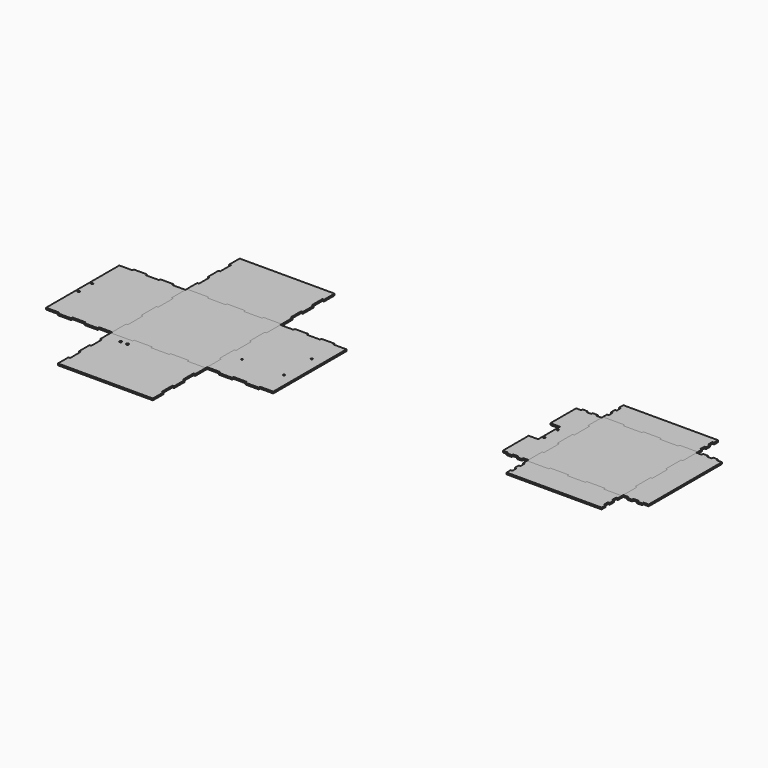
from build123d import *

# Parameters (mm, degrees)
F1_DEPTH  = 3.175
F2_DEPTH  = 3.175
F3_DEPTH  = 3.175
F4_DEPTH  = 3.175
F5_DEPTH  = 3.175
F6_R      = 2.3114
F7_DEPTH  = 25.4
F8_R      = 1.5875
F9_DEPTH  = 25.4
F10_R     = 1.905
F11_DEPTH = 25.4
F12_DEPTH = 3.175
F13_DEPTH = 3.175
F14_DEPTH = 3.175
F15_DEPTH = 3.175
F16_DEPTH = 3.175
F17_R     = 1.905
F18_DEPTH = 25.4


with BuildPart() as f1:
    # F0 (on Top) → F1 (new body)
    with BuildSketch(Plane.XY):
        Polygon((0, 3.175), (0, 0), (41.100154, 0), (41.100154, 3.175), (75.275115, 3.175), (75.275115, 0), (109.450077, 0), (109.450077, 3.175), (143.625038, 3.175), (143.625038, 0), (177.8, 0), (177.8, 3.175), (177.8, 35.56), (174.625, 35.56), (174.625, 71.12), (177.8, 71.12), (177.8, 106.68), (174.625, 106.68), (174.625, 142.24), (177.8, 142.24), (177.8, 174.625), (177.8, 177.8), (143.625038, 177.8), (143.625038, 174.625), (109.450077, 174.625), (109.450077, 177.8), (75.275115, 177.8), (75.275115, 174.625), (41.100154, 174.625), (41.100154, 177.8), (0, 177.8), (0, 174.625), (0, 142.24), (3.175, 142.24), (3.175, 106.68), (0, 106.68), (0, 71.12), (3.175, 71.12), (3.175, 35.56), (0, 35.56), align=None)
    extrude(amount=F1_DEPTH)


with BuildPart() as f2:
    # F0 (on Top) → F2 (new body)
    with BuildSketch(Plane.XY):
        Polygon((0, 202.565), (0, 177.8), (41.100154, 177.8), (41.100154, 174.625), (75.275115, 174.625), (75.275115, 177.8), (109.450077, 177.8), (109.450077, 174.625), (143.625038, 174.625), (143.625038, 177.8), (177.8, 177.8), (177.8, 202.565), (174.625, 202.565), (174.625, 227.33), (177.8, 227.33), (177.8, 252.095), (174.625, 252.095), (174.625, 276.86), (177.8, 276.86), (177.8, 301.625), (0, 301.625), (0, 276.86), (3.175, 276.86), (3.175, 252.095), (0, 252.095), (0, 227.33), (3.175, 227.33), (3.175, 202.565), align=None)
    extrude(amount=F2_DEPTH)


with BuildPart() as f3:
    # F0 (on Top) → F3 (new body)
    with BuildSketch(Plane.XY):
        Polygon((-24.765, 3.175), (0, 3.175), (0, 35.56), (3.175, 35.56), (3.175, 71.12), (0, 71.12), (0, 106.68), (3.175, 106.68), (3.175, 142.24), (0, 142.24), (0, 174.625), (-24.765, 174.625), (-24.765, 177.8), (-49.53, 177.8), (-49.53, 174.625), (-74.295, 174.625), (-74.295, 177.8), (-99.06, 177.8), (-99.06, 174.625), (-123.825, 174.625), (-123.825, 3.175), (-99.06, 3.175), (-99.06, 0), (-74.295, 0), (-74.295, 3.175), (-49.53, 3.175), (-49.53, 0), (-24.765, 0), align=None)
    extrude(amount=F3_DEPTH)

    # F10 (on face) → F11 (cut)
    with BuildSketch(Plane.XY.offset(3.175)):
        with Locations((-118.745, 104.775)):
            Circle(F10_R)
        with Locations((-118.745, 73.025)):
            Circle(F10_R)
    extrude(amount=-F11_DEPTH, mode=Mode.SUBTRACT)


with BuildPart() as f4:
    # F0 (on Top) → F4 (new body)
    with BuildSketch(Plane.XY):
        Polygon((177.8, 35.56), (177.8, 3.175), (202.565, 3.175), (202.565, 0), (227.33, 0), (227.33, 3.175), (252.095, 3.175), (252.095, 0), (276.86, 0), (276.86, 3.175), (301.625, 3.175), (301.625, 174.625), (276.86, 174.625), (276.86, 177.8), (252.095, 177.8), (252.095, 174.625), (227.33, 174.625), (227.33, 177.8), (202.565, 177.8), (202.565, 174.625), (177.8, 174.625), (177.8, 142.24), (174.625, 142.24), (174.625, 106.68), (177.8, 106.68), (177.8, 71.12), (174.625, 71.12), (174.625, 35.56), align=None)
    extrude(amount=F4_DEPTH)

    # F8 (on face) → F9 (cut)
    with BuildSketch(Plane.XY.offset(3.175)):
        with Locations((201.960813, 54.385198)):
            Circle(F8_R)
        with Locations((280.918813, 54.255)):
            Circle(F8_R)
        with Locations((280.918813, 119.255)):
            Circle(F8_R)
    extrude(amount=-F9_DEPTH, mode=Mode.SUBTRACT)


with BuildPart() as f5:
    # F0 (on Top) → F5 (new body)
    with BuildSketch(Plane.XY):
        Polygon((41.100154, 0), (0, 0), (0, -24.765), (3.175, -24.765), (3.175, -49.53), (0, -49.53), (0, -74.295), (3.175, -74.295), (3.175, -99.06), (0, -99.06), (0, -123.825), (177.8, -123.825), (177.8, -99.06), (174.625, -99.06), (174.625, -74.295), (177.8, -74.295), (177.8, -49.53), (174.625, -49.53), (174.625, -24.765), (177.8, -24.765), (177.8, 0), (143.625038, 0), (143.625038, 3.175), (109.450077, 3.175), (109.450077, 0), (75.275115, 0), (75.275115, 3.175), (41.100154, 3.175), align=None)
    extrude(amount=F5_DEPTH)

    # F6 (on face) → F7 (cut)
    with BuildSketch(Plane.XY.offset(3.175)):
        with Locations((28.575, -12.7)):
            Circle(F6_R)
        with Locations((41.275, -12.7)):
            Circle(F6_R)
    extrude(amount=-F7_DEPTH, mode=Mode.SUBTRACT)


with BuildPart() as f12:
    # F0 (on Top) → F12 (new body)
    with BuildSketch(Plane.XY):
        Polygon((728.335508, 67.149459), (728.335508, 63.974459), (769.435662, 63.974459), (769.435662, 67.149459), (803.610623, 67.149459), (803.610623, 63.974459), (837.785585, 63.974459), (837.785585, 67.149459), (871.960546, 67.149459), (871.960546, 63.974459), (906.135508, 63.974459), (906.135508, 67.149459), (906.135508, 99.534459), (902.960508, 99.534459), (902.960508, 135.094459), (906.135508, 135.094459), (906.135508, 170.654459), (902.960508, 170.654459), (902.960508, 206.214459), (906.135508, 206.214459), (906.135508, 238.599459), (906.135508, 241.774459), (871.960546, 241.774459), (871.960546, 238.599459), (837.785585, 238.599459), (837.785585, 241.774459), (803.610623, 241.774459), (803.610623, 238.599459), (769.435662, 238.599459), (769.435662, 241.774459), (728.335508, 241.774459), (728.335508, 238.599459), (728.335508, 206.214459), (731.510508, 206.214459), (731.510508, 170.654459), (728.335508, 170.654459), (728.335508, 135.094459), (731.510508, 135.094459), (731.510508, 99.534459), (728.335508, 99.534459), align=None)
    extrude(amount=F12_DEPTH)


with BuildPart() as f13:
    # F0 (on Top) → F13 (new body)
    with BuildSketch(Plane.XY):
        Polygon((718.810508, 67.149459), (728.335508, 67.149459), (728.335508, 99.534459), (731.510508, 99.534459), (731.510508, 135.094459), (728.335508, 135.094459), (728.335508, 170.654459), (731.510508, 170.654459), (731.510508, 206.214459), (728.335508, 206.214459), (728.335508, 238.599459), (718.810508, 238.599459), (718.810508, 241.774459), (709.285508, 241.774459), (709.285508, 238.599459), (699.760508, 238.599459), (699.760508, 241.774459), (690.235508, 241.774459), (690.235508, 238.599459), (680.710508, 238.599459), (680.710508, 67.149459), (690.235508, 67.149459), (690.235508, 63.974459), (699.760508, 63.974459), (699.760508, 67.149459), (709.285508, 67.149459), (709.285508, 63.974459), (718.810508, 63.974459), align=None)
    extrude(amount=F13_DEPTH)

    # F17 (on face) → F18 (cut)
    with BuildSketch(Plane.XY.offset(3.175)):
        Polygon((698.490508, 178.274459), (680.710508, 178.274459), (680.710508, 127.474459), (698.490508, 127.474459), (698.490508, 152.874459), align=None)
        with Locations((702.300508, 168.749459)):
            Circle(F17_R)
        with Locations((702.300508, 136.999459)):
            Circle(F17_R)
    extrude(amount=-F18_DEPTH, mode=Mode.SUBTRACT)


with BuildPart() as f14:
    # F0 (on Top) → F14 (new body)
    with BuildSketch(Plane.XY):
        Polygon((769.435662, 63.974459), (728.335508, 63.974459), (728.335508, 54.449459), (731.510508, 54.449459), (731.510508, 44.924459), (728.335508, 44.924459), (728.335508, 35.399459), (731.510508, 35.399459), (731.510508, 25.874459), (728.335508, 25.874459), (728.335508, 16.349459), (906.135508, 16.349459), (906.135508, 25.874459), (902.960508, 25.874459), (902.960508, 35.399459), (906.135508, 35.399459), (906.135508, 44.924459), (902.960508, 44.924459), (902.960508, 54.449459), (906.135508, 54.449459), (906.135508, 63.974459), (871.960546, 63.974459), (871.960546, 67.149459), (837.785585, 67.149459), (837.785585, 63.974459), (803.610623, 63.974459), (803.610623, 67.149459), (769.435662, 67.149459), align=None)
    extrude(amount=F14_DEPTH)


with BuildPart() as f15:
    # F0 (on Top) → F15 (new body)
    with BuildSketch(Plane.XY):
        Polygon((728.335508, 251.299459), (728.335508, 241.774459), (769.435662, 241.774459), (769.435662, 238.599459), (803.610623, 238.599459), (803.610623, 241.774459), (837.785585, 241.774459), (837.785585, 238.599459), (871.960546, 238.599459), (871.960546, 241.774459), (906.135508, 241.774459), (906.135508, 251.299459), (902.960508, 251.299459), (902.960508, 260.824459), (906.135508, 260.824459), (906.135508, 270.349459), (902.960508, 270.349459), (902.960508, 279.874459), (906.135508, 279.874459), (906.135508, 289.399459), (728.335508, 289.399459), (728.335508, 279.874459), (731.510508, 279.874459), (731.510508, 270.349459), (728.335508, 270.349459), (728.335508, 260.824459), (731.510508, 260.824459), (731.510508, 251.299459), align=None)
    extrude(amount=F15_DEPTH)


with BuildPart() as f16:
    # F0 (on Top) → F16 (new body)
    with BuildSketch(Plane.XY):
        Polygon((906.135508, 99.534459), (906.135508, 67.149459), (915.660508, 67.149459), (915.660508, 63.974459), (925.185508, 63.974459), (925.185508, 67.149459), (934.710508, 67.149459), (934.710508, 63.974459), (944.235508, 63.974459), (944.235508, 67.149459), (953.760508, 67.149459), (953.760508, 238.599459), (944.235508, 238.599459), (944.235508, 241.774459), (934.710508, 241.774459), (934.710508, 238.599459), (925.185508, 238.599459), (925.185508, 241.774459), (915.660508, 241.774459), (915.660508, 238.599459), (906.135508, 238.599459), (906.135508, 206.214459), (902.960508, 206.214459), (902.960508, 170.654459), (906.135508, 170.654459), (906.135508, 135.094459), (902.960508, 135.094459), (902.960508, 99.534459), align=None)
    extrude(amount=F16_DEPTH)


solid = Compound([f1.part, f2.part, f3.part, f4.part, f5.part, f12.part, f13.part, f14.part, f15.part, f16.part])
